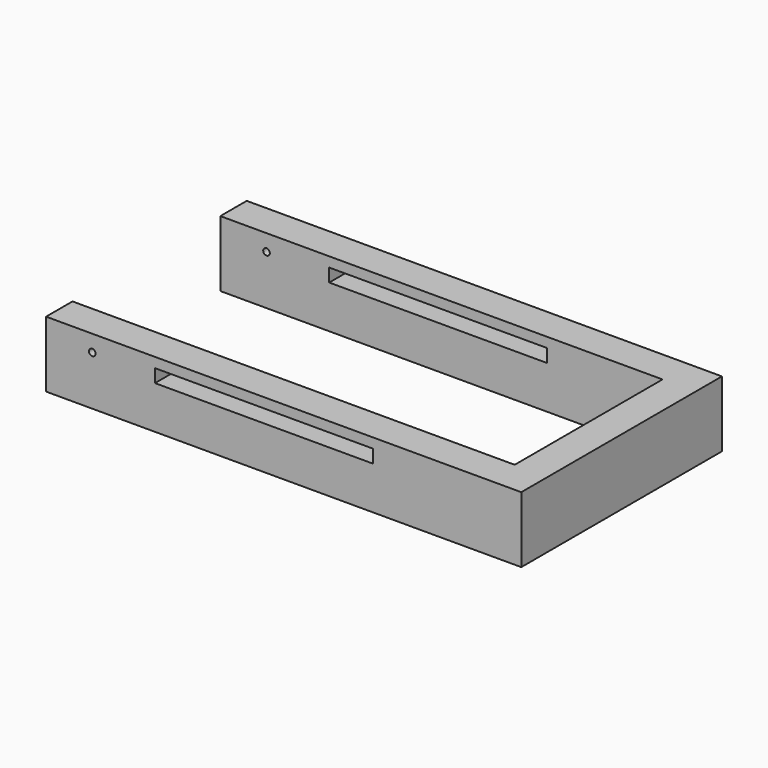
from build123d import *

# Parameters (mm, degrees)
F0_W      = 457.2
F0_H      = 63.5
F1_DEPTH  = 31.75
F2_W      = 31.75
F2_H      = 63.5
F3_DEPTH  = 177.8
F4_W      = 31.75
F4_H      = 63.5
F4_W_2    = 425.45
F5_DEPTH  = 31.75
F7_DEPTH  = 254
F9_DEPTH  = 508
F10_W     = 76.2
F10_H     = 12.7
F11_DEPTH = 346.71


with BuildPart() as f1:
    # F0 (on Front) → F1 (new body)
    with BuildSketch(Plane.XZ):
        with Locations((228.6, 31.75)):
            Rectangle(F0_W, F0_H)
    extrude(amount=F1_DEPTH)

    # F2 (on face) → F3 (join)
    with BuildSketch(Plane.XZ.offset(31.75)):
        with Locations((441.325, 31.75)):
            Rectangle(F2_W, F2_H)
    extrude(amount=F3_DEPTH)

    # F4 (on face) → F5 (join)
    with BuildSketch(Plane.XZ.offset(209.55)):
        with Locations((441.325, 31.75)):
            Rectangle(F4_W, F4_H)
        with Locations((212.725, 31.75)):
            Rectangle(F4_W_2, F4_H)
    extrude(amount=F5_DEPTH)

    # F6 (on face) → F7 (cut)
    with BuildSketch(Plane.XZ.offset(241.3)):
        Polygon((180.975, 41.275), (314.325, 41.275), (314.325, 53.975), (247.65, 53.975), (180.975, 53.975), align=None)
    extrude(amount=-F7_DEPTH, mode=Mode.SUBTRACT)

    # F8 (on face) → F9 (cut)
    with BuildSketch(Plane.XZ.offset(241.3)):
        with BuildLine():
            ThreePointArc((41.269663, 47.625), (44.444663, 44.45), (47.619663, 47.625))
            ThreePointArc((47.619663, 47.625), (44.444663, 50.8), (41.269663, 47.625))
        make_face()
    extrude(amount=-F9_DEPTH, mode=Mode.SUBTRACT)

    # F10 (on face) → F11 (cut)
    with BuildSketch(Plane.XZ.offset(241.3)):
        with Locations((142.875, 47.625)):
            Rectangle(F10_W, F10_H)
    extrude(amount=-F11_DEPTH, mode=Mode.SUBTRACT)


solid = f1.part
